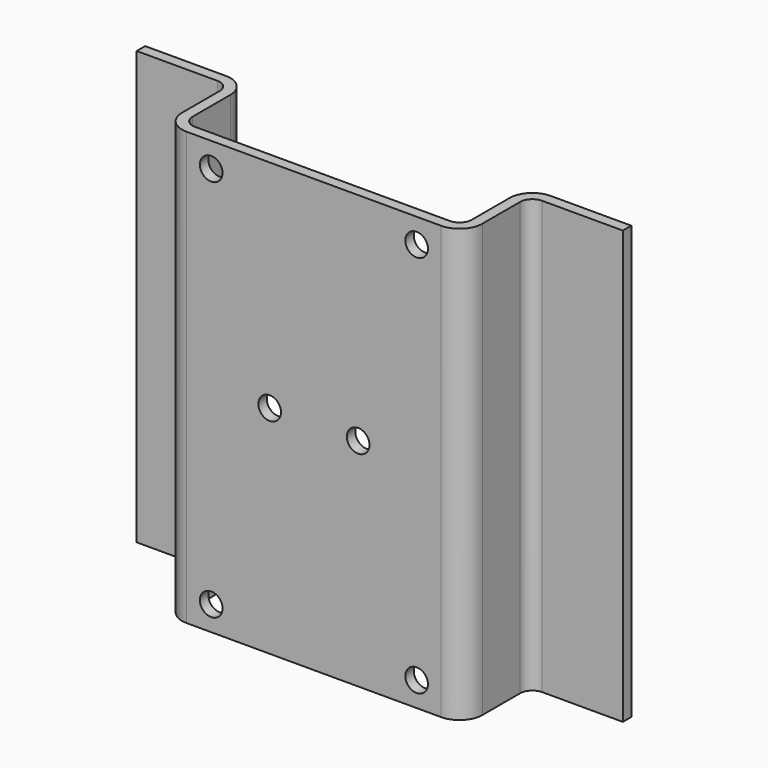
from build123d import *

# Parameters (mm, degrees)
F1_DEPTH = 69.85
F2_R     = 3.69316
F3_R     = 1.98374
F4_R     = 1.8288
F5_DEPTH = 1.70942


with BuildPart() as f1:
    # F0 (on Top) → F1 (new body)
    with BuildSketch(Plane.XY):
        Polygon((0, -13.290575), (0, 0), (-16.70942, 0), (-16.70942, -1.70942), (-1.70942, -1.70942), (-1.70942, -14.999995), (46.79058, -14.999995), (46.79058, -1.70942), (61.79058, -1.70942), (61.79058, 0), (45.08116, 0), (45.08116, -13.290575), align=None)
    extrude(amount=F1_DEPTH)

    # F2
    f2_edges = [f1.edges().sort_by_distance(p)[0] for p in [
        (46.79058, -14.999995, 34.925),
        (-1.70942, -14.999995, 34.925),
        (0, 0, 34.925),
        (45.08116, 0, 34.925),
    ]]
    fillet(f2_edges, radius=F2_R)

    # F3
    f3_edges = [f1.edges().sort_by_distance(p)[0] for p in [
        (0, -13.290575, 34.925),
        (45.08116, -13.290575, 34.925),
        (46.79058, -1.70942, 34.925),
        (-1.70942, -1.70942, 34.925),
    ]]
    fillet(f3_edges, radius=F3_R)

    # F4 (on face) → F5 (cut, through all)
    with BuildSketch(Plane.XZ.offset(14.999995)):
        with Locations((39.12867, 65.88125)):
            Circle(F4_R)
        with Locations((5.95249, 65.88125)):
            Circle(F4_R)
        with Locations((5.95249, 3.96875)):
            Circle(F4_R)
        with Locations((39.12867, 3.96875)):
            Circle(F4_R)
        with Locations((15.39683, 34.925)):
            Circle(F4_R)
        with Locations((29.68433, 34.925)):
            Circle(F4_R)
    extrude(amount=-F5_DEPTH, mode=Mode.SUBTRACT)


solid = f1.part
